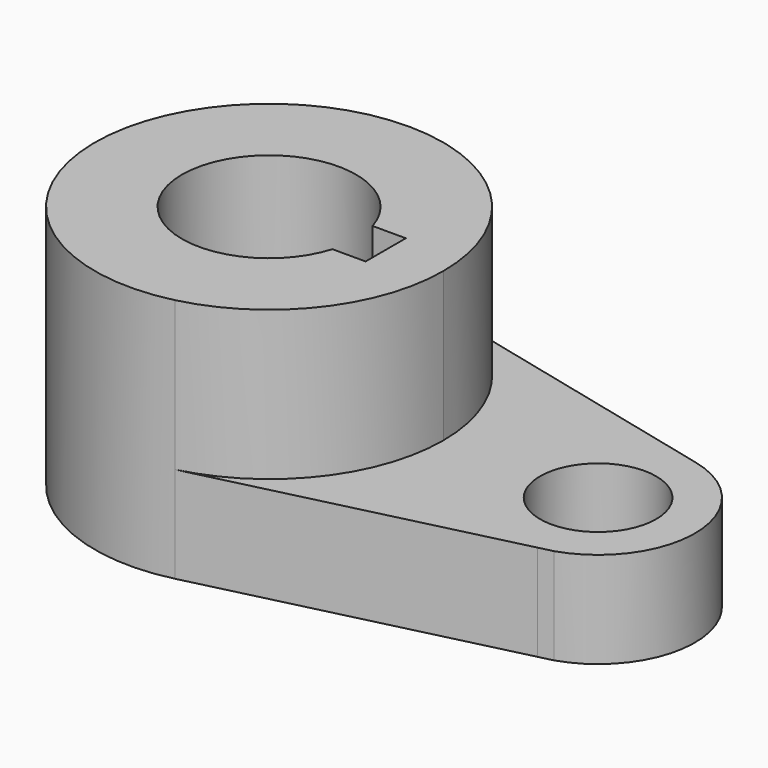
from build123d import *

# Parameters (mm, degrees)
F0_R     = 25.4
F1_DEPTH = 40.2336
F0_R_2   = 9.525
F2_DEPTH = 15.7734


with BuildPart() as f1:
    # F0 (on Top) → F1 (new body)
    with BuildSketch(Plane.XY):
        with BuildLine():
            Line((-25.28207, 27.642332), (-26.324773, 27.894657))
            ThreePointArc((-26.324773, 27.894657), (-61.096783, -0.281283), (-25.776829, -27.767227))
            ThreePointArc((-25.776829, -27.767227), (-10.058643, -17.660062), (-3.948128, 0))
            ThreePointArc((-3.948128, 0), (-9.901856, 17.458777), (-25.28207, 27.642332))
        make_face()
        with Locations((-32.523148, 0)):
            Circle(F0_R, mode=Mode.SUBTRACT)
        with Locations((-32.523148, 0)):
            Circle(F0_R)
        with BuildLine():
            ThreePointArc((-18.843367, -4.122653), (-46.810648, 0), (-18.843367, 4.122653))
            Line((-18.843367, 4.122653), (-13.386128, 4.122653))
            Line((-13.386128, 4.122653), (-13.386128, -4.122653))
            Line((-13.386128, -4.122653), (-18.843367, -4.122653))
        make_face(mode=Mode.SUBTRACT)
    extrude(amount=F1_DEPTH)

    # F0 (on Top) → F2 (join)
    with BuildSketch(Plane.XY):
        with BuildLine():
            ThreePointArc((-3.948128, 0), (-10.058643, -17.660062), (-25.776829, -27.767227))
            Line((-25.776829, -27.767227), (24.059165, -15.659087))
            Line((24.059165, -15.659087), (26.318371, -15.110191))
            ThreePointArc((26.318371, -15.110191), (37.314952, 0.589055), (25.184714, 15.429824))
            Line((25.184714, 15.429824), (-25.28207, 27.642332))
            ThreePointArc((-25.28207, 27.642332), (-9.901856, 17.458777), (-3.948128, 0))
        make_face()
        with Locations((21.450878, 0.000175)):
            Circle(F0_R_2, mode=Mode.SUBTRACT)
    extrude(amount=F2_DEPTH)


solid = f1.part
